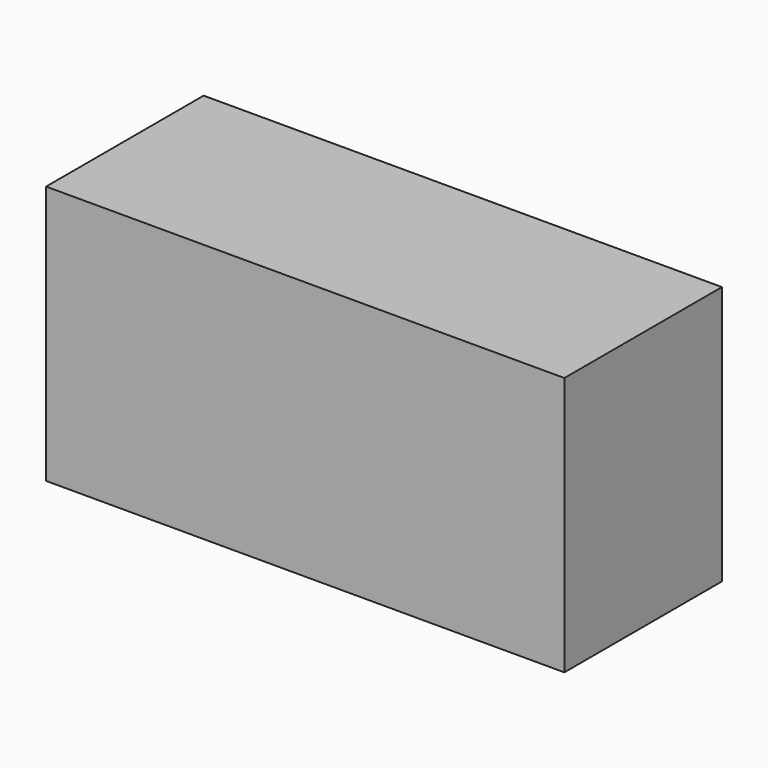
from build123d import *

# Parameters (mm, degrees)
SKETCH_W  = 20
SKETCH_H  = 7.6
PAD_DEPTH = 10


with BuildPart() as part:
    # Sketch → Pad (new body)
    with BuildSketch(Plane.XY):
        with Locations((10, 3.8)):
            Rectangle(SKETCH_W, SKETCH_H)
    extrude(amount=PAD_DEPTH)


solid = part.part
